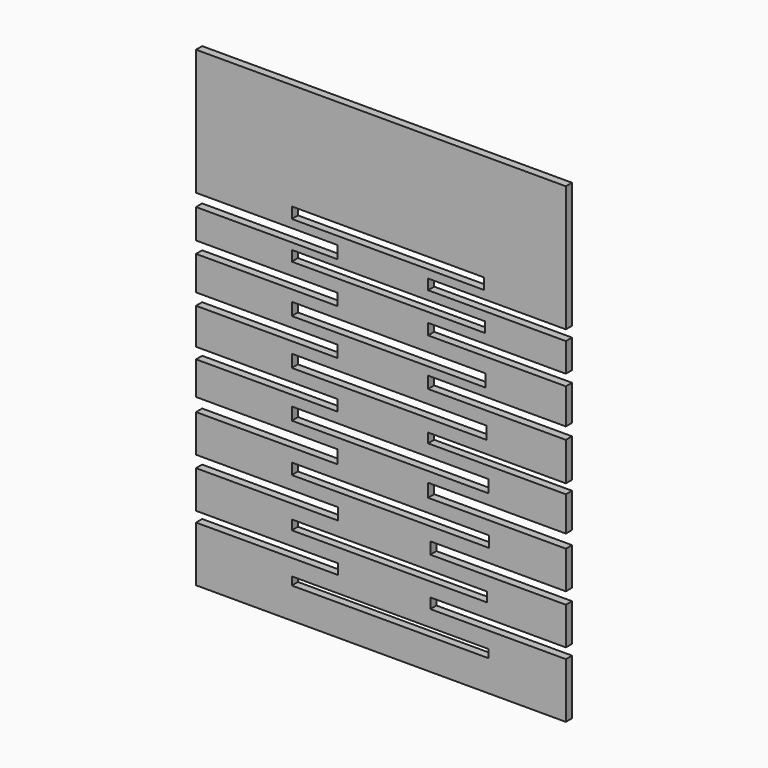
from build123d import *

# Parameters (mm, degrees)
F0_W     = 50.984893
F0_H     = 2.100501
F0_W_2   = 50.602986
F0_H_2   = 2.482414
F0_W_3   = 51.175848
F0_H_3   = 2.86432
F0_H_4   = 3.246229
F0_W_4   = 50.412029
F0_W_5   = 50.221075
F0_W_6   = 50.030118
F0_H_5   = 2.673368
F0_W_7   = 49.839167
F0_H_6   = 2.864324
F1_DEPTH = 2


with BuildPart() as f1:
    # F0 (on Front) → F1 (new body)
    with BuildSketch(Plane.XZ):
        Polygon((-48.025098, -41.532639), (-48.025098, -55.854235), (47.834139, -55.854235), (47.834139, -41.532639), (12.698486, -41.532639), (12.698486, -38.859274), (47.834139, -38.859274), (47.834139, -29.120585), (12.698486, -29.120585), (12.698486, -26.06531), (47.834139, -26.06531), (47.834139, -16.326623), (12.125621, -16.326623), (12.125621, -12.889439), (47.834139, -12.889439), (47.834139, -3.91457), (12.125621, -3.91457), (12.125621, -1.43216), (47.834139, -1.43216), (47.834139, 8.497482), (12.125621, 8.497482), (12.125621, 11.552757), (47.834139, 11.552757), (47.834139, 20.71858), (12.125621, 20.71858), (12.125621, 23.5829), (47.834139, 23.5829), (47.834139, 31.030132), (12.125621, 31.030132), (12.125621, 33.703495), (47.834139, 33.703495), (47.834139, 66.356741), (-48.025098, 66.356741), (-48.025098, 33.703495), (-11.361802, 33.703495), (-11.361802, 30.457268), (-48.025098, 30.457268), (-48.025098, 22.819081), (-11.361802, 22.819081), (-11.361802, 19.763807), (-48.025098, 19.763807), (-48.025098, 10.979893), (-11.361802, 10.979893), (-11.361802, 7.924618), (-48.025098, 7.924618), (-48.025098, -1.43216), (-11.361802, -1.43216), (-11.361802, -4.29648), (-48.025098, -4.29648), (-48.025098, -12.889439), (-11.361802, -12.889439), (-11.361802, -16.326623), (-48.025098, -16.326623), (-48.025098, -26.06531), (-11.170847, -26.06531), (-11.170847, -29.120585), (-48.025098, -29.120585), (-48.025098, -38.859274), (-11.170847, -38.859274), (-11.170847, -41.532639), align=None)
        with Locations((2.291455, -46.783892)):
            Rectangle(F0_W, F0_H, mode=Mode.SUBTRACT)
        with Locations((2.100502, -33.989929)):
            Rectangle(F0_W_2, F0_H_2, mode=Mode.SUBTRACT)
        with Locations((2.386933, -21.195967)):
            Rectangle(F0_W_3, F0_H_3, mode=Mode.SUBTRACT)
        with Locations((2.291455, -8.592959)):
            Rectangle(F0_W, F0_H_4, mode=Mode.SUBTRACT)
        with Locations((2.005024, 3.437183)):
            Rectangle(F0_W_4, F0_H_4, mode=Mode.SUBTRACT)
        with Locations((1.909546, 15.276373)):
            Rectangle(F0_W_5, F0_H_4, mode=Mode.SUBTRACT)
        with Locations((1.814068, 27.401994)):
            Rectangle(F0_W_6, F0_H_5, mode=Mode.SUBTRACT)
        with Locations((1.718592, 37.236158)):
            Rectangle(F0_W_7, F0_H_6, mode=Mode.SUBTRACT)
    extrude(amount=F1_DEPTH)


solid = f1.part
